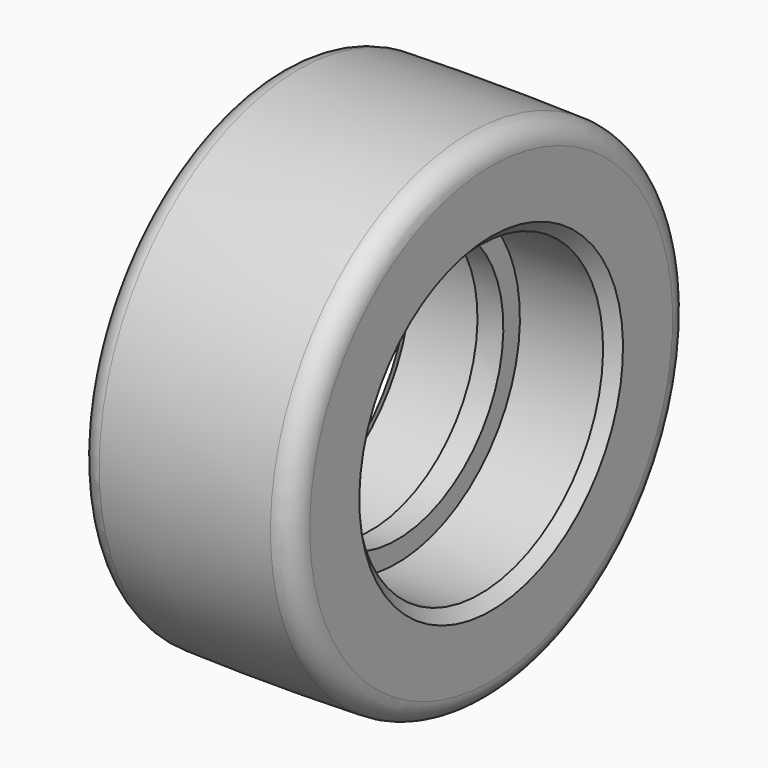
from build123d import *

# Parameters (mm, degrees)
F2_SIZE = 1.5


with BuildPart() as f1:
    # F0 (on Front) → F1 (revolve)
    with BuildSketch(Plane.XZ):
        with BuildLine():
            Line((14.5, 20.8), (14.5, 30.691634))
            ThreePointArc((14.5, 30.691634), (13.650329, 32.783544), (11.58261, 33.690497))
            ThreePointArc((11.58261, 33.690497), (0, 33.85), (-11.58261, 33.690497))
            ThreePointArc((-11.58261, 33.690497), (-13.650329, 32.783544), (-14.5, 30.691634))
            Line((-14.5, 30.691634), (-14.5, 20.8))
            Line((-14.5, 20.8), (-1.75, 20.8))
            Line((-1.75, 20.8), (-1.75, 18))
            Line((-1.75, 18), (0, 18))
            Line((0, 18), (1.75, 18))
            Line((1.75, 18), (1.75, 20.8))
            Line((1.75, 20.8), (14.5, 20.8))
        make_face()
    revolve(axis=Axis((19.442364, 0, 0), (1, 0, 0)))

    # F2
    f2_edges = [f1.edges().sort_by_distance(p)[0] for p in [
        (-14.5, 0, -20.8),
        (14.5, 0, -20.8),
    ]]
    chamfer(f2_edges, length=F2_SIZE)


solid = f1.part
